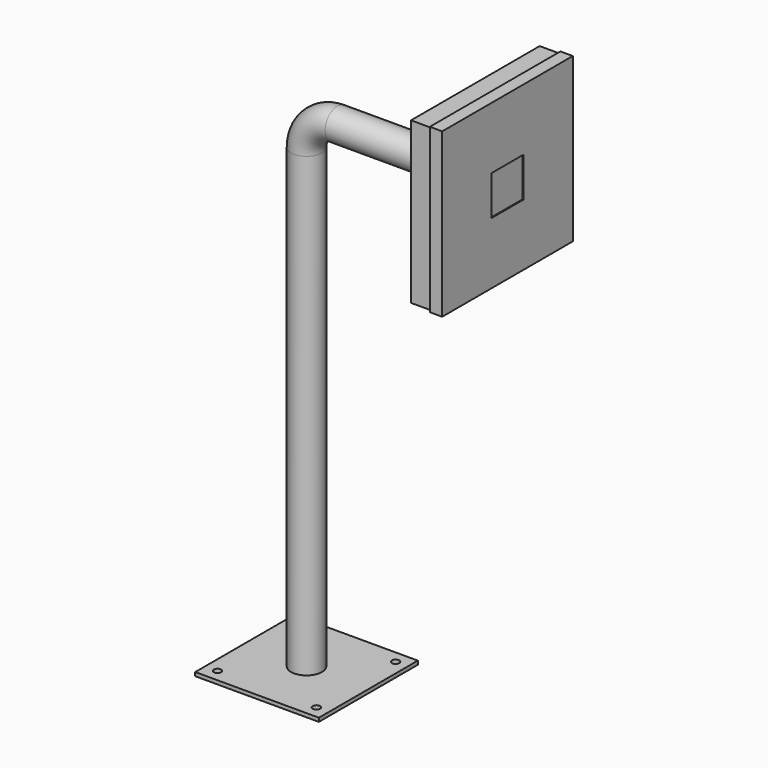
from build123d import *

# Parameters (mm, degrees)
F0_W      = 200
F0_H      = 200
F0_R      = 6
F1_DEPTH  = 6
F3_R      = 25
F3_R_2    = 23
F7_W      = 260
F7_H      = 260
F8_DEPTH  = 50
F9_T      = -1.5
F11_W     = 264
F11_H     = 264
F12_DEPTH = 20
F13_T     = -1.5
F14_W     = 64
F14_H     = 64
F15_DEPTH = 1.5


with BuildPart() as f1:
    # F0 (on Top) → F1 (new body)
    with BuildSketch(Plane.XY):
        Rectangle(F0_W, F0_H)
        with Locations((-80, -80)):
            Circle(F0_R, mode=Mode.SUBTRACT)
        with Locations((80, -80)):
            Circle(F0_R, mode=Mode.SUBTRACT)
        with Locations((-80, 80)):
            Circle(F0_R, mode=Mode.SUBTRACT)
        with Locations((80, 80)):
            Circle(F0_R, mode=Mode.SUBTRACT)
    extrude(amount=F1_DEPTH)

    # F4: sweep along a path in F2
    with BuildLine(Plane.XZ) as f4_path:
        Line((0, 6), (0, 745))
        ThreePointArc((0, 745), (14.6446609407, 780.3553390593), (50, 795))
        Line((50, 795), (245, 795))
    # F3 (on face) → F4 (sweep)
    with BuildSketch(Plane.XY.offset(6)):
        Circle(F3_R)
        Circle(F3_R_2, mode=Mode.SUBTRACT)
    sweep(path=f4_path.line)


with BuildPart() as f6:
    # F5 (on Front) → F6 (revolve)
    with BuildSketch(Plane.XZ):
        Polygon((245, 835), (245, 820), (246.5, 820), (246.5, 833.5), (273, 833.5), (273, 855), (271.5, 855), (271.5, 835), align=None)
    revolve(axis=Axis((270.696592927, 0, 795), (1, 0, 0)))


with BuildPart() as f8:
    # F7 (on face) → F8 (new body)
    with BuildSketch(Plane.YZ.offset(273)):
        with Locations((0, 795)):
            Rectangle(F7_W, F7_H)
    extrude(amount=F8_DEPTH)

    # F9
    f9_openings = [f8.faces().sort_by_distance(p)[0] for p in [
        (323, 0, 795),
    ]]
    offset(amount=F9_T, openings=f9_openings)


with BuildPart() as f12:
    # F11 (on offset) → F12 (new body)
    with BuildSketch(Plane(origin=(305, 0, 0), x_dir=(0, -1, 0), z_dir=(-1, 0, 0))):
        with Locations((0, 795)):
            Rectangle(F11_W, F11_H)
    extrude(amount=-F12_DEPTH)

    # F13
    f13_openings = [f12.faces().sort_by_distance(p)[0] for p in [
        (305, 0, 795),
    ]]
    offset(amount=F13_T, openings=f13_openings)

    # F14 (on face) → F15 (cut, through all)
    with BuildSketch(Plane.YZ.offset(325)):
        with Locations((0, 795)):
            Rectangle(F14_W, F14_H)
    extrude(amount=-F15_DEPTH, mode=Mode.SUBTRACT)


solid = Compound([f1.part, f6.part, f8.part, f12.part])
